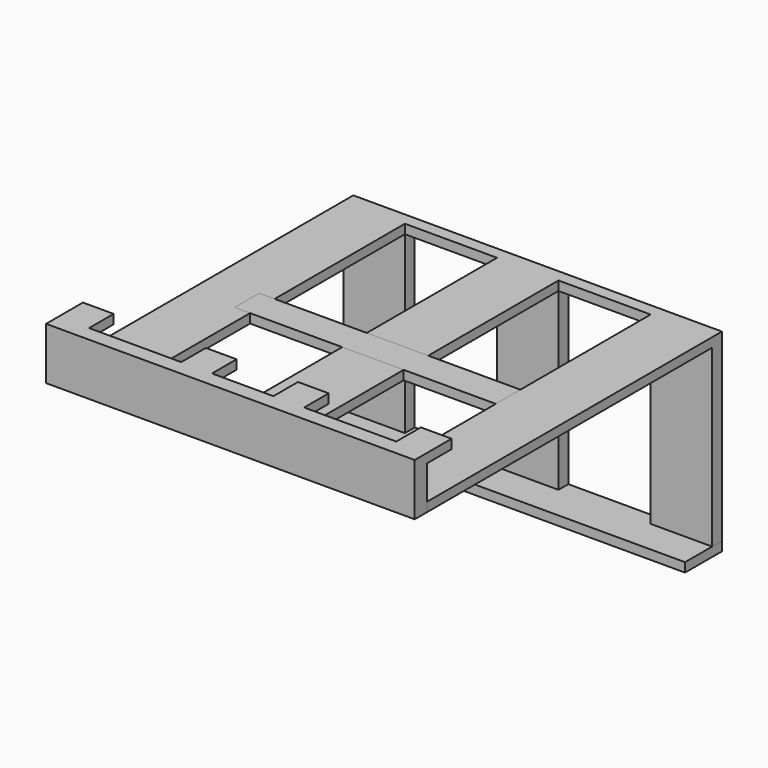
from build123d import *

# Parameters (mm, degrees)
F0_W      = 120
F0_H      = 5
F1_DEPTH  = 17
F2_W      = 10
F2_H      = 3
F3_DEPTH  = 10
F4_W      = 20
F4_H      = 3
F5_DEPTH  = 120
F6_W      = 120
F6_H      = 4
F7_DEPTH  = 3
F8_W      = 20
F8_H      = 4
F9_DEPTH  = 57
F11_DEPTH = 15
F12_W     = 10
F12_H     = 3
F13_DEPTH = 85


with BuildPart() as f1:
    # F0 (on Top) → F1 (new body)
    with BuildSketch(Plane.XY):
        with Locations((3.5764351487, -45.4733344002)):
            Rectangle(F0_W, F0_H)
    extrude(amount=F1_DEPTH)

    # F2 (on face) → F3 (join)
    with BuildSketch(Plane(origin=(0, -42.9733344002, 0), x_dir=(-1, 0, 0), z_dir=(0, 1, 0))):
        with Locations((51.4235648513, 15.5)):
            Rectangle(F2_W, F2_H)
        with Locations((-58.5764351487, 15.5)):
            Rectangle(F2_W, F2_H)
        with Locations((11.4235648513, 15.5)):
            Rectangle(F2_W, F2_H)
        with Locations((-18.5764351487, 15.5)):
            Rectangle(F2_W, F2_H)
    extrude(amount=F3_DEPTH)


with BuildPart() as f5:
    # F4 (on face) → F5 (new body)
    with BuildSketch(Plane(origin=(0, -42.9733344002, 0), x_dir=(-1, 0, 0), z_dir=(0, 1, 0))):
        with Locations((46.4235648513, 1.5)):
            Rectangle(F4_W, F4_H)
    extrude(amount=F5_DEPTH)



with BuildPart() as f5b:
    # F4 (on face) → F5, piece 2 (new body)
    with BuildSketch(Plane(origin=(0, -42.9733344002, 0), x_dir=(-1, 0, 0), z_dir=(0, 1, 0))):
        with Locations((-3.5764351487, 1.5)):
            Rectangle(F4_W, F4_H)
    extrude(amount=F5_DEPTH)


with BuildPart() as f5c:
    # F4 (on face) → F5, piece 3 (new body)
    with BuildSketch(Plane(origin=(0, -42.9733344002, 0), x_dir=(-1, 0, 0), z_dir=(0, 1, 0))):
        with Locations((-53.5764351487, 1.5)):
            Rectangle(F4_W, F4_H)
    extrude(amount=F5_DEPTH)


with BuildPart() as f5_1:
    add(f5.part)

    add(f5b.part)  # F7 merges F5b

    add(f5c.part)  # F7 merges F5c
    # F6 (on face) → F7 (join)
    with BuildSketch(Plane(origin=(0, 0, 0), x_dir=(1, 0, 0), z_dir=(0, 0, -1))):
        with Locations((3.5764351487, -75.0266655998)):
            Rectangle(F6_W, F6_H)
    extrude(amount=-F7_DEPTH)

    # F8 (on face) → F9 (join)
    with BuildSketch(Plane(origin=(0, 0, 0), x_dir=(1, 0, 0), z_dir=(0, 0, -1))):
        with Locations((-46.4235648513, -75.0266655998)):
            Rectangle(F8_W, F8_H)
        with Locations((3.5764351487, -75.0266655998)):
            Rectangle(F8_W, F8_H)
        with Locations((53.5764351487, -75.0266655998)):
            Rectangle(F8_W, F8_H)
    extrude(amount=F9_DEPTH)


with BuildPart() as f11:
    # F10 (on face) → F11 (new body)
    with BuildSketch(Plane(origin=(0, 77.0266655998, 0), x_dir=(-1, 0, 0), z_dir=(0, 1, 0))):
        Polygon((56.4235648513, -60), (56.4235648513, -57), (36.4235648513, -57), (6.4235648513, -57), (-13.5764351487, -57), (-43.5764351487, -57), (-63.5764351487, -57), (-63.5764351487, -60), align=None)
    extrude(amount=-F11_DEPTH)


with BuildPart() as f13:
    # F12 (on face) → F13 (new body)
    with BuildSketch(Plane(origin=(43.5764351487, 0, 0), x_dir=(0, -1, 0), z_dir=(-1, 0, 0))):
        with Locations((-15.0266655998, 1.5)):
            Rectangle(F12_W, F12_H)
    extrude(amount=F13_DEPTH)


solid = Compound([f1.part, f5_1.part, f11.part, f13.part])
